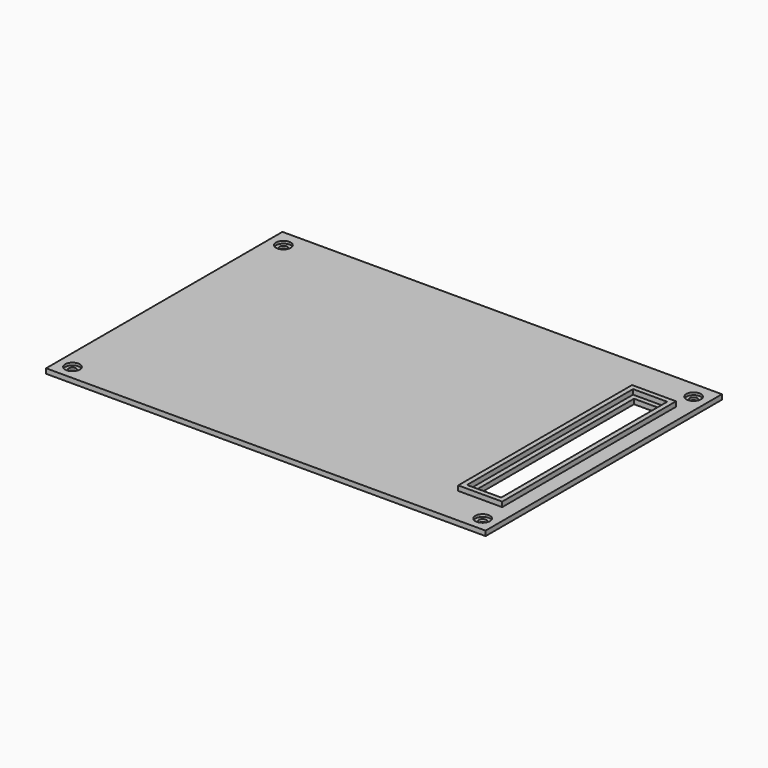
from build123d import *

# Parameters (mm, degrees)
SKETCH_W        = 180
SKETCH_H        = 121
PAD_DEPTH       = 2
SKETCH001_R     = 1.5
SKETCH001_W     = 10
SKETCH001_H     = 81
POCKET_DEPTH    = 2
SKETCH002_R     = 3
POCKET001_DEPTH = 1
SKETCH003_W     = 18
SKETCH003_H     = 89
SKETCH003_W_2   = 14
SKETCH003_H_2   = 85
PAD001_DEPTH    = 2


with BuildPart() as part:
    # Sketch → Pad (new body)
    with BuildSketch(Plane.XY):
        with Locations((90, 60.5)):
            Rectangle(SKETCH_W, SKETCH_H)
    extrude(amount=PAD_DEPTH)

    # Sketch001 → Pocket (cut)
    with BuildSketch(Plane.XY.offset(2)):
        with Locations((6, 6)):
            Circle(SKETCH001_R)
        with Locations((6, 114)):
            Circle(SKETCH001_R)
        with Locations((174, 114)):
            Circle(SKETCH001_R)
        with Locations((174, 6)):
            Circle(SKETCH001_R)
        with Locations((165, 60.5)):
            Rectangle(SKETCH001_W, SKETCH001_H)
    extrude(amount=-POCKET_DEPTH, mode=Mode.SUBTRACT)

    # Sketch002 → Pocket001 (cut)
    with BuildSketch(Plane.XY.offset(2)):
        with Locations((6, 6)):
            Circle(SKETCH002_R)
        with Locations((6, 114)):
            Circle(SKETCH002_R)
        with Locations((174, 114)):
            Circle(SKETCH002_R)
        with Locations((174, 6)):
            Circle(SKETCH002_R)
    extrude(amount=-POCKET001_DEPTH, mode=Mode.SUBTRACT)

    # Sketch003 → Pad001 (new body)
    with BuildSketch(Plane.XY.offset(2)):
        with Locations((165, 60.5)):
            Rectangle(SKETCH003_W, SKETCH003_H)
        with Locations((165, 60.5)):
            Rectangle(SKETCH003_W_2, SKETCH003_H_2, mode=Mode.SUBTRACT)
    extrude(amount=PAD001_DEPTH)


solid = part.part
